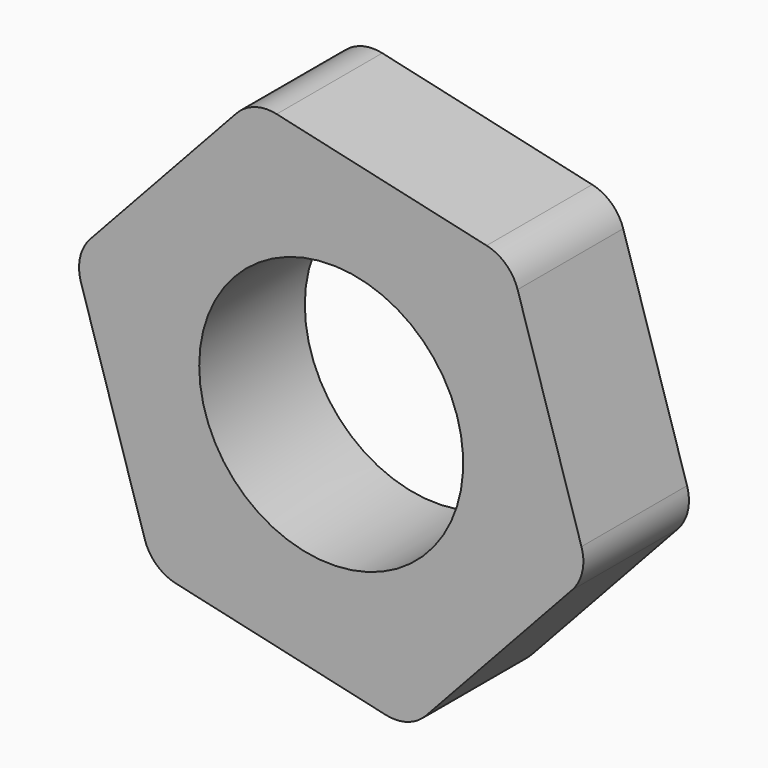
from build123d import *

# Parameters (mm, degrees)
F1_DEPTH = 1.190625
F2_R     = 2.38125
F3_DEPTH = 2.38125
F4_R     = 0.762


with BuildPart() as f1:
    # F0 (on Front) → F1 (new body, symmetric)
    with BuildSketch(Plane.XZ):
        Polygon((-1.4126416008, 4.548169957), (-4.6451515239, 1.0507014657), (-3.2325099231, -3.4974684913), (1.4126416008, -4.548169957), (4.6451515239, -1.0507014657), (3.2325099231, 3.4974684913), align=None)
    extrude(amount=F1_DEPTH, both=True)

    # F2 (on face) → F3 (cut)
    with BuildSketch(Plane(origin=(0, 1.190625, 0), x_dir=(-1, 0, 0), z_dir=(0, 1, 0))):
        Circle(F2_R)
    extrude(amount=-F3_DEPTH, mode=Mode.SUBTRACT)

    # F4
    f4_edges = [f1.edges().sort_by_distance(p)[0] for p in [
        (-1.412642, 0, 4.54817),
        (3.23251, 0, 3.497468),
        (4.645152, 0, -1.050701),
        (1.412642, 0, -4.54817),
        (-3.23251, 0, -3.497468),
        (-4.645152, 0, 1.050701),
    ]]
    fillet(f4_edges, radius=F4_R)


solid = f1.part
